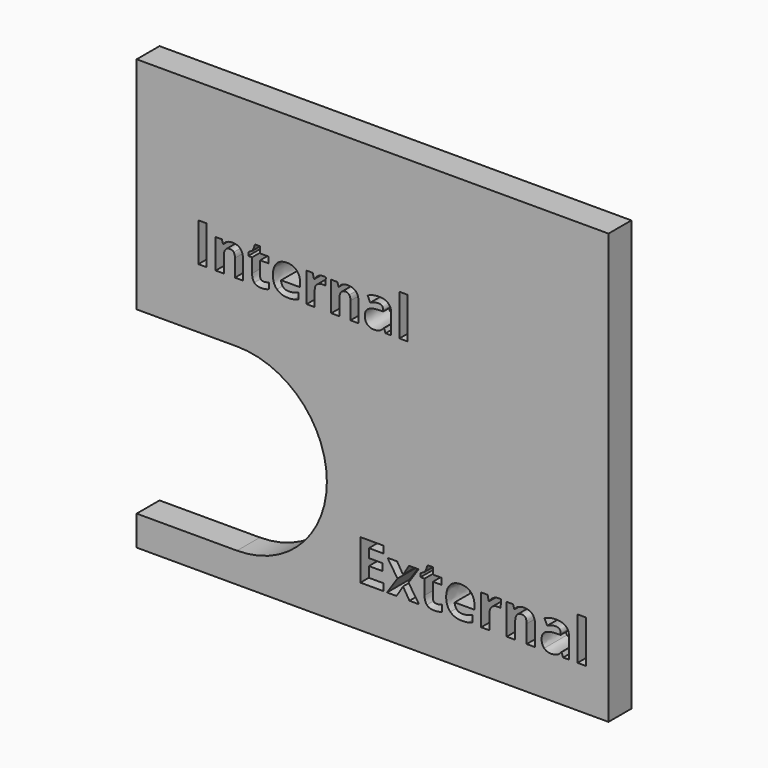
from build123d import *

# Parameters (mm, degrees)
F0_W     = 1.8576903979
F0_H     = 9.4794841607
F0_W_2   = 1.8189209174
F0_H_2   = 8.5765218488
F0_W_3   = 1.7888871355
F0_H_3   = 9.1283925916
F1_DEPTH = 6.35


with BuildPart() as f1:
    # F0 (on Front) → F1 (new body)
    with BuildSketch(Plane.XZ):
        with BuildLine():
            Line((-58.5520192981, -34.0998955071), (46.242788434, -34.0998955071))
            Line((46.242788434, -34.0998955071), (46.242788434, 61.3798126578))
            Line((46.242788434, 61.3798126578), (-58.5520192981, 61.3798126578))
            Line((-58.5520192981, 61.3798126578), (-58.5520192981, 12.4755715951))
            Line((-58.5520192981, 12.4755715951), (-36.2623296678, 12.4755715951))
            ThreePointArc((-36.2623296678, 12.4755715951), (-16.3014144637, -7.485343609), (-36.2623296678, -27.4462588131))
            Line((-36.2623296678, -27.4462588131), (-58.5520192981, -27.4462588131))
            Line((-58.5520192981, -27.4462588131), (-58.5520192981, -34.0998955071))
        make_face()
        Polygon((-3.7309758797, -23.2253552337), (-3.7309758797, -24.7848015279), (-8.8596048796, -24.7848015279), (-8.8596048796, -15.8784138803), (-3.7309758797, -15.8784138803), (-3.7309758797, -17.4261643272), (-6.9707255558, -17.4261643272), (-6.9707255558, -19.3813201186), (-3.9551462845, -19.3813201186), (-3.9551462845, -20.9290705655), (-6.9707255558, -20.9290705655), (-6.9707255558, -23.2253552337), align=None, mode=Mode.SUBTRACT)
        Polygon((-2.9337089618, -24.7848015279), (-0.6237791386, -21.3072362919), (-2.8167504897, -17.9739198381), (-0.7095486847, -17.9739198381), (0.6120820496, -20.1434994948), (1.9454086311, -17.9739198381), (4.054559744, -17.9739198381), (1.8362473905, -21.3072362919), (4.157873061, -24.7848015279), (2.0428740245, -24.7848015279), (0.6120820496, -22.4514800102), (-0.8245578489, -24.7848015279), align=None, mode=Mode.SUBTRACT)
        with BuildLine():
            add(Edge.make_bspline(
                [(7.4736457439, -23.2370510809), (7.6958668409, -23.4261339441), (8.06233672, -23.4261339441)],
                knots=[0, 0, 0, 1, 1, 1], degree=2))
            add(Edge.make_bspline(
                [(8.06233672, -23.4261339441), (8.5496636869, -23.4261339441), (9.2319214406, -23.2136593865)],
                knots=[0, 0, 0, 1, 1, 1], degree=2))
            Line((9.2319214406, -23.2136593865), (9.2319214406, -24.5957186647))
            add(Edge.make_bspline(
                [(9.2319214406, -24.5957186647), (8.5379678397, -24.9076079235), (7.5262770564, -24.9076079235)],
                knots=[0, 0, 0, 1, 1, 1], degree=2))
            add(Edge.make_bspline(
                [(7.5262770564, -24.9076079235), (6.411272956, -24.9076079235), (5.9025036026, -24.3432832958)],
                knots=[0, 0, 0, 1, 1, 1], degree=2))
            add(Edge.make_bspline(
                [(5.9025036026, -24.3432832958), (5.3937342491, -23.7789586681), (5.3937342491, -22.6522587206)],
                knots=[0, 0, 0, 1, 1, 1], degree=2))
            Line((5.3937342491, -22.6522587206), (5.3937342491, -19.3696242713))
            Line((5.3937342491, -19.3696242713), (4.5048498614, -19.3696242713))
            Line((4.5048498614, -19.3696242713), (4.5048498614, -18.5840532007))
            Line((4.5048498614, -18.5840532007), (5.528236492, -17.9622239909))
            Line((5.528236492, -17.9622239909), (6.0642961556, -16.5236347845))
            Line((6.0642961556, -16.5236347845), (7.251424647, -16.5236347845))
            Line((7.251424647, -16.5236347845), (7.251424647, -17.9739198381))
            Line((7.251424647, -17.9739198381), (9.1578477416, -17.9739198381))
            Line((9.1578477416, -17.9739198381), (9.1578477416, -19.3696242713))
            Line((9.1578477416, -19.3696242713), (7.251424647, -19.3696242713))
            Line((7.251424647, -19.3696242713), (7.251424647, -22.6522587206))
            add(Edge.make_bspline(
                [(7.251424647, -22.6522587206), (7.251424647, -23.0479682177), (7.4736457439, -23.2370510809)],
                knots=[0, 0, 0, 1, 1, 1], degree=2))
        make_face(mode=Mode.SUBTRACT)
        with BuildLine():
            add(Edge.make_bspline(
                [(15.0428081943, -24.7887001436), (14.4892047598, -24.9076079235), (13.6899885341, -24.9076079235)],
                knots=[0, 0, 0, 1, 1, 1], degree=2))
            add(Edge.make_bspline(
                [(13.6899885341, -24.9076079235), (12.0467220016, -24.9076079235), (11.1208007644, -23.9992304572)],
                knots=[0, 0, 0, 1, 1, 1], degree=2))
            add(Edge.make_bspline(
                [(11.1208007644, -23.9992304572), (10.1948795273, -23.0908529908), (10.1948795273, -21.4280933797)],
                knots=[0, 0, 0, 1, 1, 1], degree=2))
            add(Edge.make_bspline(
                [(10.1948795273, -21.4280933797), (10.1948795273, -19.7166010718), (11.0506256812, -18.7819079492)],
                knots=[0, 0, 0, 1, 1, 1], degree=2))
            add(Edge.make_bspline(
                [(11.0506256812, -18.7819079492), (11.9063718351, -17.8472148267), (13.4170854326, -17.8472148267)],
                knots=[0, 0, 0, 1, 1, 1], degree=2))
            add(Edge.make_bspline(
                [(13.4170854326, -17.8472148267), (14.8595732547, -17.8472148267), (15.6636627501, -18.6688480929)],
                knots=[0, 0, 0, 1, 1, 1], degree=2))
            add(Edge.make_bspline(
                [(15.6636627501, -18.6688480929), (16.4677522456, -19.4904813591), (16.4677522456, -20.9407664127)],
                knots=[0, 0, 0, 1, 1, 1], degree=2))
            Line((16.4677522456, -20.9407664127), (16.4677522456, -21.8432959555))
            Line((16.4677522456, -21.8432959555), (12.0759616196, -21.8432959555))
            add(Edge.make_bspline(
                [(12.0759616196, -21.8432959555), (12.1071505455, -22.6347149498), (12.5457448157, -23.0791571436)],
                knots=[0, 0, 0, 1, 1, 1], degree=2))
            add(Edge.make_bspline(
                [(12.5457448157, -23.0791571436), (12.984339086, -23.5235993374), (13.7757580803, -23.5235993374)],
                knots=[0, 0, 0, 1, 1, 1], degree=2))
            add(Edge.make_bspline(
                [(13.7757580803, -23.5235993374), (14.3917393664, -23.5235993374), (14.9394948773, -23.3959196721)],
                knots=[0, 0, 0, 1, 1, 1], degree=2))
            add(Edge.make_bspline(
                [(14.9394948773, -23.3959196721), (15.4872503881, -23.2682400068), (16.0837385956, -22.9875396738)],
                knots=[0, 0, 0, 1, 1, 1], degree=2))
            Line((16.0837385956, -22.9875396738), (16.0837385956, -24.4261288802))
            add(Edge.make_bspline(
                [(16.0837385956, -24.4261288802), (15.5964116287, -24.6697923637), (15.0428081943, -24.7887001436)],
                knots=[0, 0, 0, 1, 1, 1], degree=2))
        make_face(mode=Mode.SUBTRACT)
        with BuildLine():
            add(Edge.make_bspline(
                [(20.6071075027, -18.1971155889), (21.1460911281, -17.8472148267), (21.7796161851, -17.8472148267)],
                knots=[0, 0, 0, 1, 1, 1], degree=2))
            add(Edge.make_bspline(
                [(21.7796161851, -17.8472148267), (22.1577819114, -17.8472148267), (22.4072933185, -17.901795447)],
                knots=[0, 0, 0, 1, 1, 1], degree=2))
            Line((22.4072933185, -17.901795447), (22.266943152, -19.6425273728))
            add(Edge.make_bspline(
                [(22.266943152, -19.6425273728), (22.0408234394, -19.5820988289), (21.7191876412, -19.5820988289)],
                knots=[0, 0, 0, 1, 1, 1], degree=2))
            add(Edge.make_bspline(
                [(21.7191876412, -19.5820988289), (20.8303032535, -19.5820988289), (20.3332297472, -20.0392115239)],
                knots=[0, 0, 0, 1, 1, 1], degree=2))
            add(Edge.make_bspline(
                [(20.3332297472, -20.0392115239), (19.836156241, -20.4963242189), (19.836156241, -21.3189321391)],
                knots=[0, 0, 0, 1, 1, 1], degree=2))
            Line((19.836156241, -21.3189321391), (19.836156241, -24.7848015279))
            Line((19.836156241, -24.7848015279), (17.978465843, -24.7848015279))
            Line((17.978465843, -24.7848015279), (17.978465843, -17.9739198381))
            Line((17.978465843, -17.9739198381), (19.3858661235, -17.9739198381))
            Line((19.3858661235, -17.9739198381), (19.6607185329, -19.1201128643))
            Line((19.6607185329, -19.1201128643), (19.7503866948, -19.1201128643))
            add(Edge.make_bspline(
                [(19.7503866948, -19.1201128643), (20.0681238772, -18.5470163512), (20.6071075027, -18.1971155889)],
                knots=[0, 0, 0, 1, 1, 1], degree=2))
        make_face(mode=Mode.SUBTRACT)
        with BuildLine():
            Line((29.92967238, -20.3442782052), (29.92967238, -24.7848015279))
            Line((29.92967238, -24.7848015279), (28.0719819821, -24.7848015279))
            Line((28.0719819821, -24.7848015279), (28.0719819821, -20.8062641699))
            add(Edge.make_bspline(
                [(28.0719819821, -20.8062641699), (28.0719819821, -20.0694257959), (27.8098000739, -19.7010066089)],
                knots=[0, 0, 0, 1, 1, 1], degree=2))
            add(Edge.make_bspline(
                [(27.8098000739, -19.7010066089), (27.5476181657, -19.3325874219), (26.9745216525, -19.3325874219)],
                knots=[0, 0, 0, 1, 1, 1], degree=2))
            add(Edge.make_bspline(
                [(26.9745216525, -19.3325874219), (26.1947985055, -19.3325874219), (25.847821705, -19.8530526225)],
                knots=[0, 0, 0, 1, 1, 1], degree=2))
            add(Edge.make_bspline(
                [(25.847821705, -19.8530526225), (25.5008449046, -20.3735178232), (25.5008449046, -21.5801393933)],
                knots=[0, 0, 0, 1, 1, 1], degree=2))
            Line((25.5008449046, -21.5801393933), (25.5008449046, -24.7848015279))
            Line((25.5008449046, -24.7848015279), (23.6431545066, -24.7848015279))
            Line((23.6431545066, -24.7848015279), (23.6431545066, -17.9739198381))
            Line((23.6431545066, -17.9739198381), (25.0622506343, -17.9739198381))
            Line((25.0622506343, -17.9739198381), (25.3117620414, -18.8452604549))
            Line((25.3117620414, -18.8452604549), (25.4150753584, -18.8452604549))
            add(Edge.make_bspline(
                [(25.4150753584, -18.8452604549), (25.7269646172, -18.3520855644), (26.2717961662, -18.0996501955)],
                knots=[0, 0, 0, 1, 1, 1], degree=2))
            add(Edge.make_bspline(
                [(26.2717961662, -18.0996501955), (26.8166277153, -17.8472148267), (27.5105813162, -17.8472148267)],
                knots=[0, 0, 0, 1, 1, 1], degree=2))
            add(Edge.make_bspline(
                [(27.5105813162, -17.8472148267), (28.6996591155, -17.8472148267), (29.3146657477, -18.4895117691)],
                knots=[0, 0, 0, 1, 1, 1], degree=2))
            add(Edge.make_bspline(
                [(29.3146657477, -18.4895117691), (29.92967238, -19.1318087115), (29.92967238, -20.3442782052)],
                knots=[0, 0, 0, 1, 1, 1], degree=2))
        make_face(mode=Mode.SUBTRACT)
        with BuildLine():
            Line((37.4637472887, -24.7848015279), (36.1674575567, -24.7848015279))
            Line((36.1674575567, -24.7848015279), (35.8068356012, -23.8588802907))
            Line((35.8068356012, -23.8588802907), (35.7581029045, -23.8588802907))
            add(Edge.make_bspline(
                [(35.7581029045, -23.8588802907), (35.2902690162, -24.4495205746), (34.7931955099, -24.6785642491)],
                knots=[0, 0, 0, 1, 1, 1], degree=2))
            add(Edge.make_bspline(
                [(34.7931955099, -24.6785642491), (34.2961220037, -24.9076079235), (33.4988550858, -24.9076079235)],
                knots=[0, 0, 0, 1, 1, 1], degree=2))
            add(Edge.make_bspline(
                [(33.4988550858, -24.9076079235), (32.5183532283, -24.9076079235), (31.9550032546, -24.3462072576)],
                knots=[0, 0, 0, 1, 1, 1], degree=2))
            add(Edge.make_bspline(
                [(31.9550032546, -24.3462072576), (31.3916532808, -23.7848065917), (31.3916532808, -22.749724114)],
                knots=[0, 0, 0, 1, 1, 1], degree=2))
            add(Edge.make_bspline(
                [(31.3916532808, -22.749724114), (31.3916532808, -21.6659089395), (32.1499340413, -21.1512916624)],
                knots=[0, 0, 0, 1, 1, 1], degree=2))
            add(Edge.make_bspline(
                [(32.1499340413, -21.1512916624), (32.9082148019, -20.6366743854), (34.4364721702, -20.5820937651)],
                knots=[0, 0, 0, 1, 1, 1], degree=2))
            Line((34.4364721702, -20.5820937651), (35.6197020459, -20.5450569156))
            Line((35.6197020459, -20.5450569156), (35.6197020459, -20.2468128118))
            add(Edge.make_bspline(
                [(35.6197020459, -20.2468128118), (35.6197020459, -19.2117303341), (34.5592785658, -19.2117303341)],
                knots=[0, 0, 0, 1, 1, 1], degree=2))
            add(Edge.make_bspline(
                [(34.5592785658, -19.2117303341), (33.7425185692, -19.2117303341), (32.6392103161, -19.7049052246)],
                knots=[0, 0, 0, 1, 1, 1], degree=2))
            Line((32.6392103161, -19.7049052246), (32.0251783378, -18.4495509578))
            add(Edge.make_bspline(
                [(32.0251783378, -18.4495509578), (33.200610982, -17.8335696716), (34.6314029569, -17.8335696716)],
                knots=[0, 0, 0, 1, 1, 1], degree=2))
            add(Edge.make_bspline(
                [(34.6314029569, -17.8335696716), (36.0017663879, -17.8335696716), (36.7327568383, -18.431032533)],
                knots=[0, 0, 0, 1, 1, 1], degree=2))
            add(Edge.make_bspline(
                [(36.7327568383, -18.431032533), (37.4637472887, -19.0284953945), (37.4637472887, -20.2468128118)],
                knots=[0, 0, 0, 1, 1, 1], degree=2))
            Line((37.4637472887, -20.2468128118), (37.4637472887, -24.7848015279))
        make_face(mode=Mode.SUBTRACT)
        with Locations((40.3068128138, -20.0450594475)):
            Rectangle(F0_W, F0_H, mode=Mode.SUBTRACT)
        with Locations((-43.9213056129, 30.0711105641)):
            Rectangle(F0_W_2, F0_H_2, mode=Mode.SUBTRACT)
        with BuildLine():
            Line((-34.9402662638, 30.0589093402), (-34.9402662638, 25.7828496397))
            Line((-34.9402662638, 25.7828496397), (-36.7291533993, 25.7828496397))
            Line((-36.7291533993, 25.7828496397), (-36.7291533993, 29.6140339455))
            add(Edge.make_bspline(
                [(-36.7291533993, 29.6140339455), (-36.7291533993, 30.3235820433), (-36.9816248785, 30.6783560922)],
                knots=[0, 0, 0, 1, 1, 1], degree=2))
            add(Edge.make_bspline(
                [(-36.9816248785, 30.6783560922), (-37.2340963578, 31.0331301411), (-37.7859671005, 31.0331301411)],
                knots=[0, 0, 0, 1, 1, 1], degree=2))
            add(Edge.make_bspline(
                [(-37.7859671005, 31.0331301411), (-38.5368116485, 31.0331301411), (-38.8709374723, 30.5319414054)],
                knots=[0, 0, 0, 1, 1, 1], degree=2))
            add(Edge.make_bspline(
                [(-38.8709374723, 30.5319414054), (-39.2050632961, 30.0307526696), (-39.2050632961, 28.8688207317)],
                knots=[0, 0, 0, 1, 1, 1], degree=2))
            Line((-39.2050632961, 28.8688207317), (-39.2050632961, 25.7828496397))
            Line((-39.2050632961, 25.7828496397), (-40.9939504316, 25.7828496397))
            Line((-40.9939504316, 25.7828496397), (-40.9939504316, 32.3414767659))
            Line((-40.9939504316, 32.3414767659), (-39.6274133543, 32.3414767659))
            Line((-39.6274133543, 32.3414767659), (-39.387143099, 31.5024079836))
            Line((-39.387143099, 31.5024079836), (-39.2876561964, 31.5024079836))
            add(Edge.make_bspline(
                [(-39.2876561964, 31.5024079836), (-38.9873183772, 31.9773171602), (-38.4626657493, 32.2204030825)],
                knots=[0, 0, 0, 1, 1, 1], degree=2))
            add(Edge.make_bspline(
                [(-38.4626657493, 32.2204030825), (-37.9380131215, 32.4634890049), (-37.2697614738, 32.4634890049)],
                knots=[0, 0, 0, 1, 1, 1], degree=2))
            add(Edge.make_bspline(
                [(-37.2697614738, 32.4634890049), (-36.1247235382, 32.4634890049), (-35.532494901, 31.8449808086)],
                knots=[0, 0, 0, 1, 1, 1], degree=2))
            add(Edge.make_bspline(
                [(-35.532494901, 31.8449808086), (-34.9402662638, 31.2264726122), (-34.9402662638, 30.0589093402)],
                knots=[0, 0, 0, 1, 1, 1], degree=2))
        make_face(mode=Mode.SUBTRACT)
        with BuildLine():
            add(Edge.make_bspline(
                [(-30.9025997073, 27.2732760673), (-30.6886090111, 27.0911962644), (-30.3357120736, 27.0911962644)],
                knots=[0, 0, 0, 1, 1, 1], degree=2))
            add(Edge.make_bspline(
                [(-30.3357120736, 27.0911962644), (-29.8664342311, 27.0911962644), (-29.2094452517, 27.2958014038)],
                knots=[0, 0, 0, 1, 1, 1], degree=2))
            Line((-29.2094452517, 27.2958014038), (-29.2094452517, 25.9649294425))
            add(Edge.make_bspline(
                [(-29.2094452517, 25.9649294425), (-29.8776968993, 25.6645916234), (-30.8519177003, 25.6645916234)],
                knots=[0, 0, 0, 1, 1, 1], degree=2))
            add(Edge.make_bspline(
                [(-30.8519177003, 25.6645916234), (-31.9256254039, 25.6645916234), (-32.4155514714, 26.2080153649)],
                knots=[0, 0, 0, 1, 1, 1], degree=2))
            add(Edge.make_bspline(
                [(-32.4155514714, 26.2080153649), (-32.9054775389, 26.7514391065), (-32.9054775389, 27.8364094783)],
                knots=[0, 0, 0, 1, 1, 1], degree=2))
            Line((-32.9054775389, 27.8364094783), (-32.9054775389, 30.9974650251))
            Line((-32.9054775389, 30.9974650251), (-33.7614403236, 30.9974650251))
            Line((-33.7614403236, 30.9974650251), (-33.7614403236, 31.7539409071))
            Line((-33.7614403236, 31.7539409071), (-32.7759568544, 32.3527394341))
            Line((-32.7759568544, 32.3527394341), (-32.2597512277, 33.7380476251))
            Line((-32.2597512277, 33.7380476251), (-31.1165904034, 33.7380476251))
            Line((-31.1165904034, 33.7380476251), (-31.1165904034, 32.3414767659))
            Line((-31.1165904034, 32.3414767659), (-29.2807754837, 32.3414767659))
            Line((-29.2807754837, 32.3414767659), (-29.2807754837, 30.9974650251))
            Line((-29.2807754837, 30.9974650251), (-31.1165904034, 30.9974650251))
            Line((-31.1165904034, 30.9974650251), (-31.1165904034, 27.8364094783))
            add(Edge.make_bspline(
                [(-31.1165904034, 27.8364094783), (-31.1165904034, 27.4553558702), (-30.9025997073, 27.2732760673)],
                knots=[0, 0, 0, 1, 1, 1], degree=2))
        make_face(mode=Mode.SUBTRACT)
        with BuildLine():
            add(Edge.make_bspline(
                [(-23.6137762582, 25.7790954169), (-24.1468758872, 25.6645916234), (-24.9164915488, 25.6645916234)],
                knots=[0, 0, 0, 1, 1, 1], degree=2))
            add(Edge.make_bspline(
                [(-24.9164915488, 25.6645916234), (-26.4988964336, 25.6645916234), (-27.3905243343, 26.5393255217)],
                knots=[0, 0, 0, 1, 1, 1], degree=2))
            add(Edge.make_bspline(
                [(-27.3905243343, 26.5393255217), (-28.282152235, 27.4140594201), (-28.282152235, 29.0152354185)],
                knots=[0, 0, 0, 1, 1, 1], degree=2))
            add(Edge.make_bspline(
                [(-28.282152235, 29.0152354185), (-28.282152235, 30.6633392013), (-27.4581003436, 31.5634141031)],
                knots=[0, 0, 0, 1, 1, 1], degree=2))
            add(Edge.make_bspline(
                [(-27.4581003436, 31.5634141031), (-26.6340484523, 32.4634890049), (-25.1792871406, 32.4634890049)],
                knots=[0, 0, 0, 1, 1, 1], degree=2))
            add(Edge.make_bspline(
                [(-25.1792871406, 32.4634890049), (-23.7902247269, 32.4634890049), (-23.0159162869, 31.6722865626)],
                knots=[0, 0, 0, 1, 1, 1], degree=2))
            add(Edge.make_bspline(
                [(-23.0159162869, 31.6722865626), (-22.2416078468, 30.8810841202), (-22.2416078468, 29.484513261)],
                knots=[0, 0, 0, 1, 1, 1], degree=2))
            Line((-22.2416078468, 29.484513261), (-22.2416078468, 28.6154106968))
            Line((-22.2416078468, 28.6154106968), (-26.4707397631, 28.6154106968))
            add(Edge.make_bspline(
                [(-26.4707397631, 28.6154106968), (-26.4407059812, 27.8533034806), (-26.0183559229, 27.4253220883)],
                knots=[0, 0, 0, 1, 1, 1], degree=2))
            add(Edge.make_bspline(
                [(-26.0183559229, 27.4253220883), (-25.5960058647, 26.9973406959), (-24.8338986486, 26.9973406959)],
                knots=[0, 0, 0, 1, 1, 1], degree=2))
            add(Edge.make_bspline(
                [(-24.8338986486, 26.9973406959), (-24.2407314557, 26.9973406959), (-23.7132631608, 27.1202914907)],
                knots=[0, 0, 0, 1, 1, 1], degree=2))
            add(Edge.make_bspline(
                [(-23.7132631608, 27.1202914907), (-23.1857948658, 27.2432422854), (-22.6113987867, 27.5135463227)],
                knots=[0, 0, 0, 1, 1, 1], degree=2))
            Line((-22.6113987867, 27.5135463227), (-22.6113987867, 26.1282381317))
            add(Edge.make_bspline(
                [(-22.6113987867, 26.1282381317), (-23.0806766291, 25.8935992105), (-23.6137762582, 25.7790954169)],
                knots=[0, 0, 0, 1, 1, 1], degree=2))
        make_face(mode=Mode.SUBTRACT)
        with BuildLine():
            add(Edge.make_bspline(
                [(-18.2555618529, 32.1265475141), (-17.7365405592, 32.4634890049), (-17.126479364, 32.4634890049)],
                knots=[0, 0, 0, 1, 1, 1], degree=2))
            add(Edge.make_bspline(
                [(-17.126479364, 32.4634890049), (-16.7623197582, 32.4634890049), (-16.5220495029, 32.4109298866)],
                knots=[0, 0, 0, 1, 1, 1], degree=2))
            Line((-16.5220495029, 32.4109298866), (-16.6572015215, 30.7346694333))
            add(Edge.make_bspline(
                [(-16.6572015215, 30.7346694333), (-16.8749464404, 30.7928598858), (-17.1846698164, 30.7928598858)],
                knots=[0, 0, 0, 1, 1, 1], degree=2))
            add(Edge.make_bspline(
                [(-17.1846698164, 30.7928598858), (-18.0406326011, 30.7928598858), (-18.5192960004, 30.3526772695)],
                knots=[0, 0, 0, 1, 1, 1], degree=2))
            add(Edge.make_bspline(
                [(-18.5192960004, 30.3526772695), (-18.9979593997, 29.9124946533), (-18.9979593997, 29.1203536552)],
                knots=[0, 0, 0, 1, 1, 1], degree=2))
            Line((-18.9979593997, 29.1203536552), (-18.9979593997, 25.7828496397))
            Line((-18.9979593997, 25.7828496397), (-20.7868465352, 25.7828496397))
            Line((-20.7868465352, 25.7828496397), (-20.7868465352, 32.3414767659))
            Line((-20.7868465352, 32.3414767659), (-19.4315721261, 32.3414767659))
            Line((-19.4315721261, 32.3414767659), (-19.166899423, 31.2377352804))
            Line((-19.166899423, 31.2377352804), (-19.0805523, 31.2377352804))
            add(Edge.make_bspline(
                [(-19.0805523, 31.2377352804), (-18.7745831467, 31.7896060232), (-18.2555618529, 32.1265475141)],
                knots=[0, 0, 0, 1, 1, 1], degree=2))
        make_face(mode=Mode.SUBTRACT)
        with BuildLine():
            Line((-9.2782767266, 30.0589093402), (-9.2782767266, 25.7828496397))
            Line((-9.2782767266, 25.7828496397), (-11.0671638621, 25.7828496397))
            Line((-11.0671638621, 25.7828496397), (-11.0671638621, 29.6140339455))
            add(Edge.make_bspline(
                [(-11.0671638621, 29.6140339455), (-11.0671638621, 30.3235820433), (-11.3196353414, 30.6783560922)],
                knots=[0, 0, 0, 1, 1, 1], degree=2))
            add(Edge.make_bspline(
                [(-11.3196353414, 30.6783560922), (-11.5721068206, 31.0331301411), (-12.1239775633, 31.0331301411)],
                knots=[0, 0, 0, 1, 1, 1], degree=2))
            add(Edge.make_bspline(
                [(-12.1239775633, 31.0331301411), (-12.8748221113, 31.0331301411), (-13.2089479351, 30.5319414054)],
                knots=[0, 0, 0, 1, 1, 1], degree=2))
            add(Edge.make_bspline(
                [(-13.2089479351, 30.5319414054), (-13.5430737589, 30.0307526696), (-13.5430737589, 28.8688207317)],
                knots=[0, 0, 0, 1, 1, 1], degree=2))
            Line((-13.5430737589, 28.8688207317), (-13.5430737589, 25.7828496397))
            Line((-13.5430737589, 25.7828496397), (-15.3319608944, 25.7828496397))
            Line((-15.3319608944, 25.7828496397), (-15.3319608944, 32.3414767659))
            Line((-15.3319608944, 32.3414767659), (-13.9654238172, 32.3414767659))
            Line((-13.9654238172, 32.3414767659), (-13.7251535618, 31.5024079836))
            Line((-13.7251535618, 31.5024079836), (-13.6256666592, 31.5024079836))
            add(Edge.make_bspline(
                [(-13.6256666592, 31.5024079836), (-13.32532884, 31.9773171602), (-12.8006762122, 32.2204030825)],
                knots=[0, 0, 0, 1, 1, 1], degree=2))
            add(Edge.make_bspline(
                [(-12.8006762122, 32.2204030825), (-12.2760235843, 32.4634890049), (-11.6077719366, 32.4634890049)],
                knots=[0, 0, 0, 1, 1, 1], degree=2))
            add(Edge.make_bspline(
                [(-11.6077719366, 32.4634890049), (-10.462734001, 32.4634890049), (-9.8705053638, 31.8449808086)],
                knots=[0, 0, 0, 1, 1, 1], degree=2))
            add(Edge.make_bspline(
                [(-9.8705053638, 31.8449808086), (-9.2782767266, 31.2264726122), (-9.2782767266, 30.0589093402)],
                knots=[0, 0, 0, 1, 1, 1], degree=2))
        make_face(mode=Mode.SUBTRACT)
        with BuildLine():
            Line((-2.0232412822, 25.7828496397), (-3.2715203431, 25.7828496397))
            Line((-3.2715203431, 25.7828496397), (-3.6187859466, 26.6744775403))
            Line((-3.6187859466, 26.6744775403), (-3.6657137308, 26.6744775403))
            add(Edge.make_bspline(
                [(-3.6657137308, 26.6744775403), (-4.1162204596, 26.1057127953), (-4.5948838589, 25.8851522093)],
                knots=[0, 0, 0, 1, 1, 1], degree=2))
            add(Edge.make_bspline(
                [(-4.5948838589, 25.8851522093), (-5.0735472582, 25.6645916234), (-5.8412858085, 25.6645916234)],
                knots=[0, 0, 0, 1, 1, 1], degree=2))
            add(Edge.make_bspline(
                [(-5.8412858085, 25.6645916234), (-6.7854728275, 25.6645916234), (-7.3279580134, 26.2051996979)],
                knots=[0, 0, 0, 1, 1, 1], degree=2))
            add(Edge.make_bspline(
                [(-7.3279580134, 26.2051996979), (-7.8704431993, 26.7458077724), (-7.8704431993, 27.7425539098)],
                knots=[0, 0, 0, 1, 1, 1], degree=2))
            add(Edge.make_bspline(
                [(-7.8704431993, 27.7425539098), (-7.8704431993, 28.7862278314), (-7.1402468764, 29.281785233)],
                knots=[0, 0, 0, 1, 1, 1], degree=2))
            add(Edge.make_bspline(
                [(-7.1402468764, 29.281785233), (-6.4100505535, 29.7773426347), (-4.9383952396, 29.829901753)],
                knots=[0, 0, 0, 1, 1, 1], degree=2))
            Line((-4.9383952396, 29.829901753), (-3.7989886381, 29.8655668691))
            Line((-3.7989886381, 29.8655668691), (-3.7989886381, 30.1527649087))
            add(Edge.make_bspline(
                [(-3.7989886381, 30.1527649087), (-3.7989886381, 31.149511046), (-4.8201372233, 31.149511046)],
                knots=[0, 0, 0, 1, 1, 1], degree=2))
            add(Edge.make_bspline(
                [(-4.8201372233, 31.149511046), (-5.6066468872, 31.149511046), (-6.6690919226, 30.6746018695)],
                knots=[0, 0, 0, 1, 1, 1], degree=2))
            Line((-6.6690919226, 30.6746018695), (-7.2603820041, 31.8834615917))
            add(Edge.make_bspline(
                [(-7.2603820041, 31.8834615917), (-6.128483848, 32.4766287845), (-4.7506841026, 32.4766287845)],
                knots=[0, 0, 0, 1, 1, 1], degree=2))
            add(Edge.make_bspline(
                [(-4.7506841026, 32.4766287845), (-3.4310748096, 32.4766287845), (-2.7271580459, 31.9012941497)],
                knots=[0, 0, 0, 1, 1, 1], degree=2))
            add(Edge.make_bspline(
                [(-2.7271580459, 31.9012941497), (-2.0232412822, 31.3259595148), (-2.0232412822, 30.1527649087)],
                knots=[0, 0, 0, 1, 1, 1], degree=2))
            Line((-2.0232412822, 30.1527649087), (-2.0232412822, 25.7828496397))
        make_face(mode=Mode.SUBTRACT)
        with Locations((0.7145256507, 30.3470459354)):
            Rectangle(F0_W_3, F0_H_3, mode=Mode.SUBTRACT)
    extrude(amount=F1_DEPTH)


solid = f1.part
